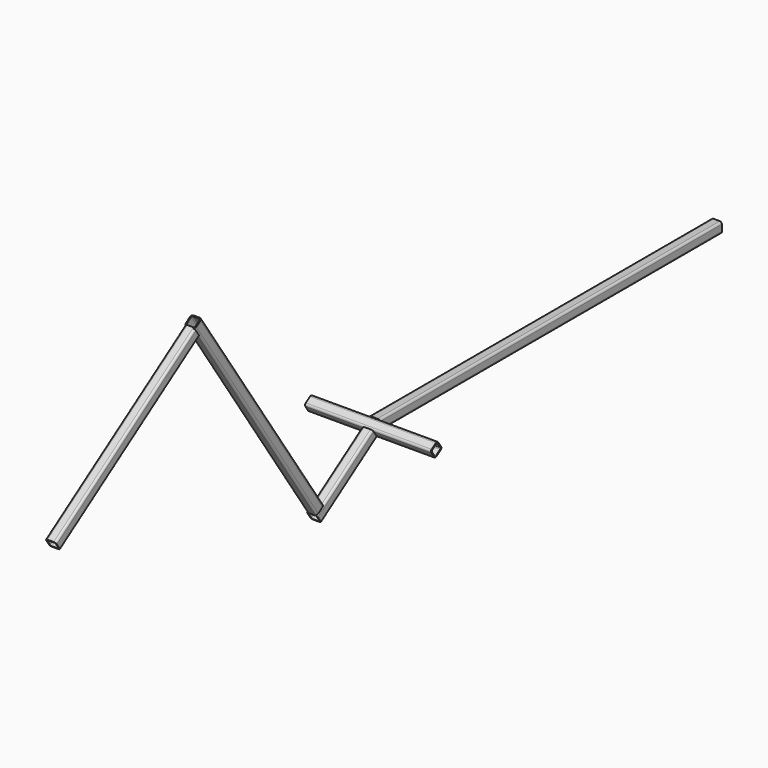
from build123d import *

# Parameters (mm, degrees)
F1_DEPTH  = 510
F3_DEPTH  = 25.001
F5_DEPTH  = 150
F7_DEPTH  = 200
F9_DEPTH  = 650
F11_DEPTH = 500


with BuildPart() as f1:
    # F0 (on Front) → F1 (new body, symmetric)
    with BuildSketch(Plane.XZ):
        with BuildLine():
            ThreePointArc((12.5, 7.5), (11.0355339059, 11.0355339059), (7.5, 12.5))
            Line((7.5, 12.5), (-7.5, 12.5))
            ThreePointArc((-7.5, 12.5), (-11.0355339059, 11.0355339059), (-12.5, 7.5))
            Line((-12.5, 7.5), (-12.5, -7.5))
            ThreePointArc((-12.5, -7.5), (-11.0355339059, -11.0355339059), (-7.5, -12.5))
            Line((-7.5, -12.5), (7.5, -12.5))
            ThreePointArc((7.5, -12.5), (11.0355339059, -11.0355339059), (12.5, -7.5))
            Line((12.5, -7.5), (12.5, 7.5))
        make_face()
        with BuildLine():
            ThreePointArc((7.5, 10), (9.267766953, 9.267766953), (10, 7.5))
            Line((10, 7.5), (10, -7.5))
            ThreePointArc((10, -7.5), (9.267766953, -9.267766953), (7.5, -10))
            Line((7.5, -10), (-7.5, -10))
            ThreePointArc((-7.5, -10), (-9.267766953, -9.267766953), (-10, -7.5))
            Line((-10, -7.5), (-10, 7.5))
            ThreePointArc((-10, 7.5), (-9.267766953, 9.267766953), (-7.5, 10))
            Line((-7.5, 10), (7.5, 10))
        make_face(mode=Mode.SUBTRACT)
    extrude(amount=F1_DEPTH, both=True)

    # F2 (on face) → F3 (cut, through all)
    with BuildSketch(Plane.YZ.offset(12.5)):
        Polygon((-493.1372870789, -12.5), (-510, 12.5), (-510, -12.5), align=None)
    extrude(amount=-F3_DEPTH, mode=Mode.SUBTRACT)


with BuildPart() as f5:
    # F4 (on Right) → F5 (new body, symmetric)
    with BuildSketch(Plane.YZ):
        with BuildLine():
            Line((-512.6009288643, -19.4097973833), (-500.165365276, -11.0219038312))
            ThreePointArc((-500.165365276, -11.0219038312), (-498.0531938761, -7.8307609453), (-498.8161419306, -4.0807514511))
            Line((-498.8161419306, -4.0807514511), (-507.2040354826, 8.3548121372))
            ThreePointArc((-507.2040354826, 8.3548121372), (-510.3951783685, 10.4669835371), (-514.1451878628, 9.7040354826))
            Line((-514.1451878628, 9.7040354826), (-526.5807514511, 1.3161419306))
            ThreePointArc((-526.5807514511, 1.3161419306), (-528.692922851, -1.8750009553), (-527.9299747965, -5.6250104495))
            Line((-527.9299747965, -5.6250104495), (-519.5420812445, -18.0605740379))
            ThreePointArc((-519.5420812445, -18.0605740379), (-516.3509383586, -20.1727454378), (-512.6009288643, -19.4097973833))
        make_face()
        with BuildLine():
            ThreePointArc((-512.7472056041, 7.6314415513), (-510.872200857, 8.0129155785), (-509.276629414, 6.9568298785))
            Line((-509.276629414, 6.9568298785), (-500.888735862, -5.4787337098))
            ThreePointArc((-500.888735862, -5.4787337098), (-500.5072618347, -7.3537384569), (-501.5633475347, -8.9493098998))
            Line((-501.5633475347, -8.9493098998), (-513.998911123, -17.3372034519))
            ThreePointArc((-513.998911123, -17.3372034519), (-515.8739158701, -17.7186774791), (-517.4694873131, -16.6625917792))
            Line((-517.4694873131, -16.6625917792), (-525.8573808651, -4.2270281909))
            ThreePointArc((-525.8573808651, -4.2270281909), (-526.2388548924, -2.3520234437), (-525.1827691924, -0.7564520008))
            Line((-525.1827691924, -0.7564520008), (-512.7472056041, 7.6314415513))
        make_face(mode=Mode.SUBTRACT)
    extrude(amount=F5_DEPTH, both=True)


with BuildPart() as f7:
    # F6 (on face) → F7 (new body)
    with BuildSketch(Plane(origin=(0, -365.4557215439, -246.5029967101), x_dir=(1, 0, 0), z_dir=(0, -0.8290375726, -0.5591929035))):
        with BuildLine():
            ThreePointArc((12.5, 290.551350427), (11.0355339059, 294.086884333), (7.5, 295.551350427))
            Line((7.5, 295.551350427), (-7.5, 295.551350427))
            ThreePointArc((-7.5, 295.551350427), (-11.0355339059, 294.086884333), (-12.5, 290.551350427))
            Line((-12.5, 290.551350427), (-12.5, 275.551350427))
            ThreePointArc((-12.5, 275.551350427), (-11.0355339059, 272.0158165211), (-7.5, 270.551350427))
            Line((-7.5, 270.551350427), (7.5, 270.551350427))
            ThreePointArc((7.5, 270.551350427), (11.0355339059, 272.0158165211), (12.5, 275.551350427))
            Line((12.5, 275.551350427), (12.5, 290.551350427))
        make_face()
        with BuildLine():
            Line((-7.5, 293.051350427), (7.5, 293.051350427))
            ThreePointArc((7.5, 293.051350427), (9.267766953, 292.31911738), (10, 290.551350427))
            Line((10, 290.551350427), (10, 275.551350427))
            ThreePointArc((10, 275.551350427), (9.267766953, 273.7835834741), (7.5, 273.051350427))
            Line((7.5, 273.051350427), (-7.5, 273.051350427))
            ThreePointArc((-7.5, 273.051350427), (-9.267766953, 273.7835834741), (-10, 275.551350427))
            Line((-10, 275.551350427), (-10, 290.551350427))
            ThreePointArc((-10, 290.551350427), (-9.267766953, 292.31911738), (-7.5, 293.051350427))
        make_face(mode=Mode.SUBTRACT)
    extrude(amount=F7_DEPTH)

    # F8 (on face) → F9 (join)
    with BuildSketch(Plane(origin=(0, -165.27021777, 245.0231741234), x_dir=(1, 0, 0), z_dir=(0, -0.5591929035, 0.8290375726))):
        with BuildLine():
            Line((-7.5, -640.8192507097), (7.5, -640.8192507097))
            ThreePointArc((7.5, -640.8192507097), (11.0355339059, -639.3547846156), (12.5, -635.8192507097))
            Line((12.5, -635.8192507097), (12.5, -620.8192507097))
            ThreePointArc((12.5, -620.8192507097), (11.0355339059, -617.2837168038), (7.5, -615.8192507097))
            Line((7.5, -615.8192507097), (-7.5, -615.8192507097))
            ThreePointArc((-7.5, -615.8192507097), (-11.0355339059, -617.2837168038), (-12.5, -620.8192507097))
            Line((-12.5, -620.8192507097), (-12.5, -635.8192507097))
            ThreePointArc((-12.5, -635.8192507097), (-11.0355339059, -639.3547846156), (-7.5, -640.8192507097))
        make_face()
        with BuildLine():
            ThreePointArc((7.5, -618.3192507097), (9.267766953, -619.0514837567), (10, -620.8192507097))
            Line((10, -620.8192507097), (10, -635.8192507097))
            ThreePointArc((10, -635.8192507097), (9.267766953, -637.5870176627), (7.5, -638.3192507097))
            Line((7.5, -638.3192507097), (-7.5, -638.3192507097))
            ThreePointArc((-7.5, -638.3192507097), (-9.267766953, -637.5870176627), (-10, -635.8192507097))
            Line((-10, -635.8192507097), (-10, -620.8192507097))
            ThreePointArc((-10, -620.8192507097), (-9.267766953, -619.0514837567), (-7.5, -618.3192507097))
            Line((-7.5, -618.3192507097), (7.5, -618.3192507097))
        make_face(mode=Mode.SUBTRACT)
    extrude(amount=F9_DEPTH)

    # F10 (on face) → F11 (join)
    with BuildSketch(Plane(origin=(0, -531.2632360549, -358.3415774043), x_dir=(1, 0, 0), z_dir=(0, -0.8290375726, -0.5591929035))):
        with BuildLine():
            ThreePointArc((12.5, 940.551350427), (11.0355339059, 944.086884333), (7.5, 945.551350427))
            Line((7.5, 945.551350427), (-7.5, 945.551350427))
            ThreePointArc((-7.5, 945.551350427), (-11.0355339059, 944.086884333), (-12.5, 940.551350427))
            Line((-12.5, 940.551350427), (-12.5, 925.551350427))
            ThreePointArc((-12.5, 925.551350427), (-11.0355339059, 922.0158165211), (-7.5, 920.551350427))
            Line((-7.5, 920.551350427), (7.5, 920.551350427))
            ThreePointArc((7.5, 920.551350427), (11.0355339059, 922.0158165211), (12.5, 925.551350427))
            Line((12.5, 925.551350427), (12.5, 940.551350427))
        make_face()
        with BuildLine():
            ThreePointArc((7.5, 943.051350427), (9.267766953, 942.31911738), (10, 940.551350427))
            Line((10, 940.551350427), (10, 925.551350427))
            ThreePointArc((10, 925.551350427), (9.267766953, 923.7835834741), (7.5, 923.051350427))
            Line((7.5, 923.051350427), (-7.5, 923.051350427))
            ThreePointArc((-7.5, 923.051350427), (-9.267766953, 923.7835834741), (-10, 925.551350427))
            Line((-10, 925.551350427), (-10, 940.551350427))
            ThreePointArc((-10, 940.551350427), (-9.267766953, 942.31911738), (-7.5, 943.051350427))
            Line((-7.5, 943.051350427), (7.5, 943.051350427))
        make_face(mode=Mode.SUBTRACT)
    extrude(amount=F11_DEPTH)


solid = Compound([f1.part, f5.part, f7.part])
